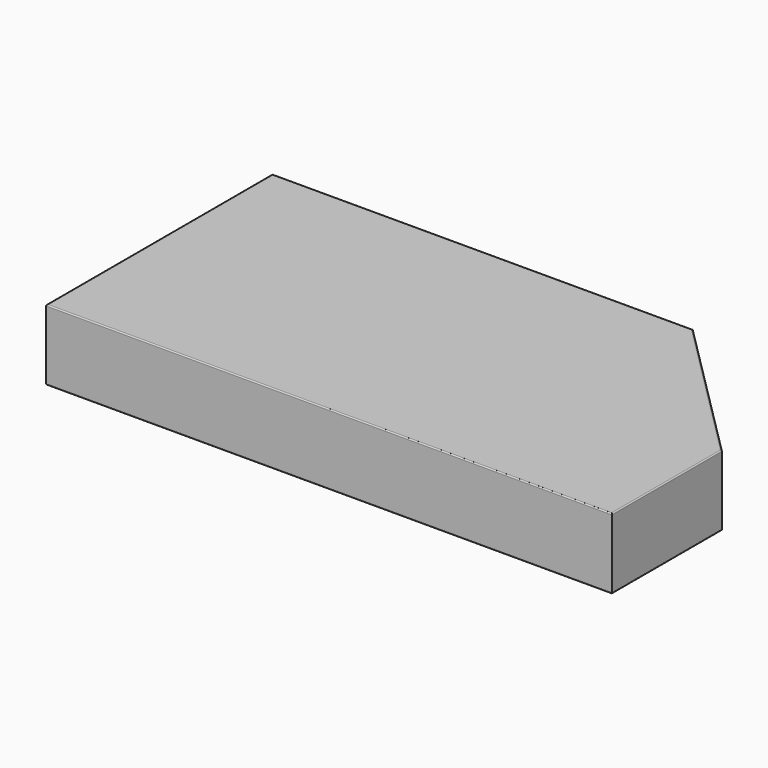
from build123d import *

# Parameters (mm, degrees)
F0_W     = 100
F0_H     = 50
F1_DEPTH = 12.5
F2_SIZE  = 25.7
F3_R     = 0.2


with BuildPart() as f1:
    # F0 (on Top) → F1 (new body)
    with BuildSketch(Plane.XY):
        with Locations((50, 25)):
            Rectangle(F0_W, F0_H)
    extrude(amount=-F1_DEPTH)

    # F2
    f2_edges = [f1.edges().sort_by_distance(p)[0] for p in [
        (100, 50, -6.25),
    ]]
    chamfer(f2_edges, length=F2_SIZE)

    # F3
    f3_edges = [f1.edges().sort_by_distance(p)[0] for p in [
        (100, 12.15, 0),
        (87.15, 37.15, 0),
        (50, 0, 0),
        (37.15, 50, 0),
        (0, 25, 0),
        (100, 12.15, -12.5),
        (87.15, 37.15, -12.5),
        (50, 0, -12.5),
        (37.15, 50, -12.5),
        (0, 25, -12.5),
    ]]
    fillet(f3_edges, radius=F3_R)


solid = f1.part
